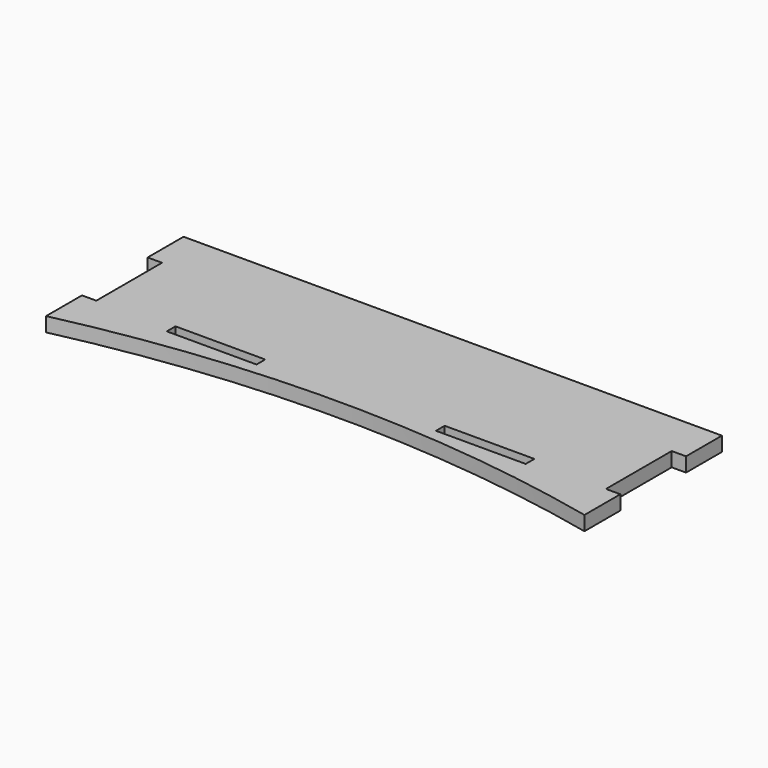
from build123d import *

# Parameters (mm, degrees)
F1_DEPTH = 4.064
F2_W     = 25.4
F2_H     = 3.0734
F3_DEPTH = 25.4


with BuildPart() as f1:
    # F0 (on Top) → F1 (new body)
    with BuildSketch(Plane.XY):
        with BuildLine():
            Line((-93.431173, -62.185294), (-93.431173, -74.885294))
            ThreePointArc((-93.431173, -74.885294), (-17.231173, -66.45046), (58.968827, -74.885294))
            Line((58.968827, -74.885294), (58.968827, -62.185294))
            Line((58.968827, -62.185294), (54.904827, -62.185294))
            Line((54.904827, -62.185294), (54.904827, -38.944294))
            Line((54.904827, -38.944294), (58.968827, -38.944294))
            Line((58.968827, -38.944294), (58.968827, -36.785294))
            Line((58.968827, -36.785294), (58.968827, -26.244294))
            Line((58.968827, -26.244294), (54.904827, -26.244294))
            Line((54.904827, -26.244294), (-93.431173, -26.244294))
            Line((-93.431173, -26.244294), (-93.431173, -38.944294))
            Line((-93.431173, -38.944294), (-89.367173, -38.944294))
            Line((-89.367173, -38.944294), (-89.367173, -62.185294))
            Line((-89.367173, -62.185294), (-93.431173, -62.185294))
        make_face()
    extrude(amount=F1_DEPTH)

    # F2 (on face) → F3 (cut)
    with BuildSketch(Plane.XY.offset(4.064)):
        with Locations((20.868827, -62.386453)):
            Rectangle(F2_W, F2_H)
        with Locations((-55.331173, -62.386453)):
            Rectangle(F2_W, F2_H)
    extrude(amount=-F3_DEPTH, mode=Mode.SUBTRACT)


solid = f1.part
